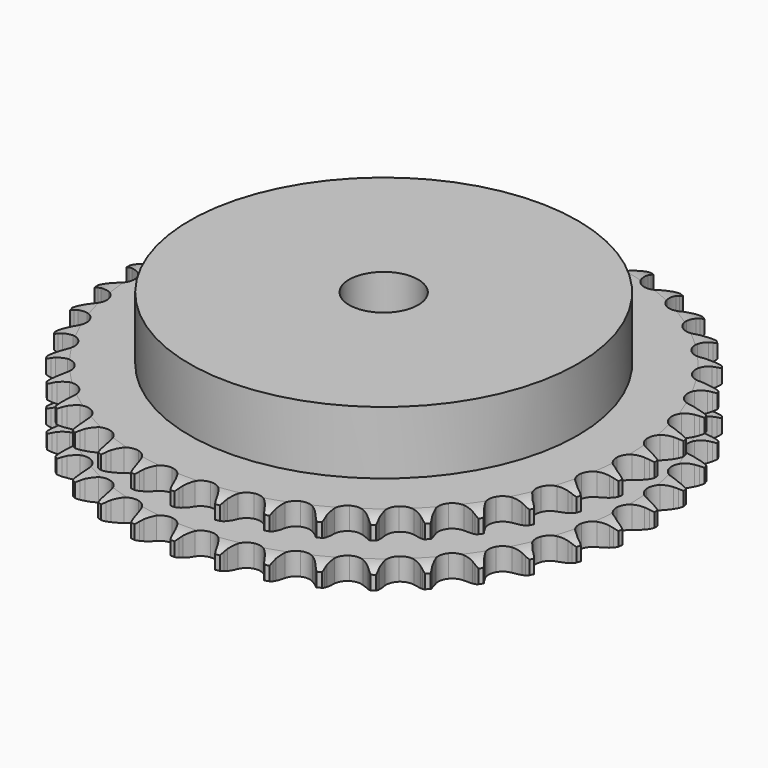
from build123d import *

# Parameters (mm, degrees)
PAD_DEPTH         = 15.4
SKETCH001_R       = 45
PAD001_DEPTH      = 30
SKETCH002_R       = 8
POCKET_DEPTH      = 0.001
POCKET_DEPTH_BACK = 30.001


with BuildPart() as part:
    # Sprocket → Pad (new body)
    with BuildSketch(Plane.XY):
        with BuildLine():
            ThreePointArc((-4.992558, 61.843928), (-4.440066, 61.078118), (-4.037219, 60.224054))
            Line((-4.037219, 60.224054), (-3.72759, 59.372168))
            ThreePointArc((-3.72759, 59.372168), (-3.237296, 58.276891), (-2.594344, 57.263661))
            ThreePointArc((-2.594344, 57.263661), (-1.452389, 56.302176), (0, 55.957095))
            ThreePointArc((0, 55.957095), (1.452389, 56.302176), (2.594344, 57.263661))
            ThreePointArc((2.594344, 57.263661), (3.237296, 58.276891), (3.72759, 59.372168))
            Line((3.72759, 59.372168), (4.037219, 60.224054))
            ThreePointArc((4.037219, 60.224054), (4.440066, 61.078118), (4.992558, 61.843928))
            ThreePointArc((4.992558, 61.843928), (5.415051, 60.99941), (5.675679, 60.091783))
            Line((5.675679, 60.091783), (5.844647, 59.201262))
            ThreePointArc((5.844647, 59.201262), (6.152897, 58.041519), (6.624989, 56.938273))
            ThreePointArc((6.624989, 56.938273), (7.597923, 55.806057), (8.976149, 55.232466))
            ThreePointArc((8.976149, 55.232466), (10.465085, 55.340098), (11.746485, 56.105949))
            Line((11.746485, 56.105949), (13.203284, 58.005367))
            ThreePointArc((13.203284, 58.005367), (13.413623, 58.406995), (13.645556, 58.796552))
            ThreePointArc((13.645556, 58.796552), (14.180188, 59.574936), (14.848369, 60.242203))
            ThreePointArc((14.848369, 60.242203), (15.129921, 59.340848), (15.241581, 58.403168))
            Line((15.241581, 58.403168), (15.265511, 57.497074))
            ThreePointArc((15.265511, 57.497074), (15.383733, 56.302902), (15.672739, 55.138214))
            ThreePointArc((15.672739, 55.138214), (16.451453, 53.864591), (17.719821, 53.077344))
            ThreePointArc((17.719821, 53.077344), (19.206741, 52.944741), (20.594398, 53.495123))
            Line((20.594398, 53.495123), (22.33702, 55.136257))
            ThreePointArc((22.33702, 55.136257), (22.609061, 55.498943), (22.90048, 55.846251))
            ThreePointArc((22.90048, 55.846251), (23.55305, 56.528794), (24.319616, 57.080236))
            ThreePointArc((24.319616, 57.080236), (24.452934, 56.14539), (24.412733, 55.20194))
            Line((24.412733, 55.20194), (24.291005, 54.303742))
            ThreePointArc((24.291005, 54.303742), (24.216139, 53.10607), (24.314573, 51.910105))
            ThreePointArc((24.314573, 51.910105), (24.878899, 50.52806), (26.004559, 49.547547))
            ThreePointArc((26.004559, 49.547547), (27.450952, 49.178142), (28.908927, 49.498802))
            Line((28.908927, 49.498802), (30.892239, 50.839147))
            ThreePointArc((30.892239, 50.839147), (31.218937, 51.153498), (31.562293, 51.449562))
            ThreePointArc((31.562293, 51.449562), (32.3159, 52.018586), (33.160997, 52.439922))
            ThreePointArc((33.160997, 52.439922), (33.142628, 51.495795), (32.951609, 50.571012))
            Line((32.951609, 50.571012), (32.687376, 49.703971))
            ThreePointArc((32.687376, 49.703971), (32.421359, 48.533819), (32.326672, 47.337551))
            ThreePointArc((32.326672, 47.337551), (32.661995, 45.882879), (33.615792, 44.734495))
            ThreePointArc((33.615792, 44.734495), (34.984198, 44.137856), (36.47473, 44.220487))
            Line((36.47473, 44.220487), (38.647366, 45.225329))
            ThreePointArc((38.647366, 45.225329), (39.020258, 45.483204), (39.40666, 45.720356))
            ThreePointArc((39.40666, 45.720356), (40.241786, 46.161124), (41.143526, 46.44144))
            ThreePointArc((41.143526, 46.44144), (40.973947, 45.512487), (40.637055, 44.630321))
            Line((40.637055, 44.630321), (40.237161, 43.816894))
            ThreePointArc((40.237161, 43.816894), (39.786883, 42.704567), (39.501527, 41.538979))
            ThreePointArc((39.501527, 41.538979), (39.599162, 40.049355), (40.356394, 38.762843))
            ThreePointArc((40.356394, 38.762843), (41.611372, 37.954422), (43.095857, 37.796885))
            Line((43.095857, 37.796885), (45.401545, 38.4402))
            ThreePointArc((45.401545, 38.4402), (45.810975, 38.634919), (46.230415, 38.807016))
            ThreePointArc((46.230415, 38.807016), (47.12543, 39.108114), (48.060459, 39.24015))
            ThreePointArc((48.060459, 39.24015), (47.744061, 38.350429), (47.270023, 37.533728))
            Line((47.270023, 37.533728), (46.744824, 36.794982))
            ThreePointArc((46.744824, 36.794982), (46.121947, 35.769289), (45.653313, 34.66457))
            ThreePointArc((45.653313, 34.66457), (45.510732, 33.178574), (46.051787, 31.787253))
            ThreePointArc((46.051787, 31.787253), (47.160833, 30.787989), (48.600824, 30.394364))
            Line((48.600824, 30.394364), (50.979849, 30.659489))
            ThreePointArc((50.979849, 30.659489), (51.415211, 30.78601), (51.856826, 30.888596))
            ThreePointArc((51.856826, 30.888596), (52.788551, 31.042223), (53.732652, 31.022561))
            ThreePointArc((53.732652, 31.022561), (53.277629, 30.195115), (52.678722, 29.465031))
            Line((52.678722, 29.465031), (52.041821, 28.8201))
            ThreePointArc((52.041821, 28.8201), (51.262478, 27.907606), (50.622703, 26.892366))
            ThreePointArc((50.622703, 26.892366), (50.243597, 25.448485), (50.554462, 23.988391))
            ThreePointArc((50.554462, 23.988391), (51.488854, 22.824163), (52.847055, 22.204644))
            Line((52.847055, 22.204644), (55.237801, 22.084714))
            ThreePointArc((55.237801, 22.084714), (55.687821, 22.139759), (56.140173, 22.170176))
            ThreePointArc((56.140173, 22.170176), (57.084476, 22.172355), (58.013196, 22.001503))
            ThreePointArc((58.013196, 22.001503), (57.431335, 21.257763), (56.723069, 20.633206))
            Line((56.723069, 20.633206), (55.990962, 20.098792))
            ThreePointArc((55.990962, 20.098792), (55.075337, 19.32313), (54.280991, 18.423665))
            ThreePointArc((54.280991, 18.423665), (53.67518, 17.059294), (53.747804, 15.568241))
            ThreePointArc((53.747804, 15.568241), (54.48334, 14.269203), (55.724575, 13.439836))
            Line((55.724575, 13.439836), (58.065124, 12.937956))
            ThreePointArc((58.065124, 12.937956), (58.518146, 12.9201), (58.969519, 12.877561))
            ThreePointArc((58.969519, 12.877561), (59.901943, 12.728235), (60.79123, 12.410618))
            ThreePointArc((60.79123, 12.410618), (60.097599, 11.769847), (59.298319, 11.266991))
            Line((59.298319, 11.266991), (58.489967, 10.856936))
            ThreePointArc((58.489967, 10.856936), (57.461774, 10.238195), (56.53343, 9.4778))
            ThreePointArc((56.53343, 9.4778), (55.716604, 8.228277), (55.549105, 6.744883))
            ThreePointArc((55.549105, 6.744883), (56.066736, 5.344678), (57.158858, 4.326943))
            Line((57.158858, 4.326943), (59.38859, 3.456112))
            ThreePointArc((59.38859, 3.456112), (59.832881, 3.365818), (60.271585, 3.251424))
            ThreePointArc((60.271585, 3.251424), (61.167981, 2.954461), (61.994803, 2.498305))
            ThreePointArc((61.994803, 2.498305), (61.207367, 1.977097), (60.337774, 1.608967))
            Line((60.337774, 1.608967), (59.474112, 1.333891))
            ThreePointArc((59.474112, 1.333891), (58.359981, 0.888096), (57.321683, 0.286465))
            ThreePointArc((57.321683, 0.286465), (56.314997, -0.815849), (55.911714, -2.253165))
            ThreePointArc((55.911714, -2.253165), (56.198033, -3.718271), (57.112756, -4.898015))
            Line((57.112756, -4.898015), (59.173922, -6.115243))
            ThreePointArc((59.173922, -6.115243), (59.597976, -6.275638), (60.012649, -6.458923))
            ThreePointArc((60.012649, -6.458923), (60.849801, -6.895833), (61.592743, -7.478713))
            ThreePointArc((61.592743, -7.478713), (60.731897, -7.866858), (59.814512, -8.090728))
            Line((59.814512, -8.090728), (58.917909, -8.223701))
            ThreePointArc((58.917909, -8.223701), (57.746695, -8.485004), (56.625335, -8.91229))
            ThreePointArc((56.625335, -8.91229), (55.454861, -9.838845), (54.826239, -11.192857))
            ThreePointArc((54.826239, -11.192857), (54.873831, -12.684919), (55.587464, -13.996117))
            Line((55.587464, -13.996117), (57.426682, -15.528217))
            ThreePointArc((57.426682, -15.528217), (57.819515, -15.754557), (58.199417, -16.001988))
            ThreePointArc((58.199417, -16.001988), (58.955642, -16.567528), (59.595463, -17.262036))
            ThreePointArc((59.595463, -17.262036), (58.683502, -17.507065), (57.742086, -17.580878))
            Line((57.742086, -17.580878), (56.835763, -17.568304))
            ThreePointArc((56.835763, -17.568304), (55.6378, -17.638346), (54.46242, -17.88022))
            ThreePointArc((54.46242, -17.88022), (53.158473, -18.60702), (52.320793, -19.842659))
            ThreePointArc((52.320793, -19.842659), (52.128425, -21.323034), (52.622486, -22.731727))
            Line((52.622486, -22.731727), (54.19212, -24.539018))
            ThreePointArc((54.19212, -24.539018), (54.543558, -24.825442), (54.878851, -25.130609))
            ThreePointArc((54.878851, -25.130609), (55.534564, -25.810133), (56.054692, -26.598282))
            ThreePointArc((56.054692, -26.598282), (55.115235, -26.693849), (54.17417, -26.615692))
            Line((54.17417, -26.615692), (53.281601, -26.457897))
            ThreePointArc((53.281601, -26.457897), (52.087915, -26.334865), (50.888957, -26.385063))
            ThreePointArc((50.888957, -26.385063), (49.485309, -26.893282), (48.460266, -27.978548))
            ThreePointArc((48.460266, -27.978548), (48.03292, -29.408894), (48.294613, -30.878598))
            Line((48.294613, -30.878598), (49.554011, -32.914272))
            ThreePointArc((49.554011, -32.914272), (49.854953, -33.253362), (50.136951, -33.608361))
            ThreePointArc((50.136951, -33.608361), (50.675169, -34.384269), (51.062134, -35.245646))
            ThreePointArc((51.062134, -35.245646), (50.119513, -35.189276), (49.203171, -34.961174))
            Line((49.203171, -34.961174), (48.347473, -34.662244))
            ThreePointArc((48.347473, -34.662244), (47.188981, -34.349325), (45.997496, -34.206546))
            ThreePointArc((45.997496, -34.206546), (44.530501, -34.483023), (43.344644, -35.389806))
            ThreePointArc((43.344644, -35.389806), (42.693388, -36.733078), (42.715935, -38.225729))
            Line((42.715935, -38.225729), (43.632479, -40.437063))
            ThreePointArc((43.632479, -40.437063), (43.87513, -40.820036), (44.09653, -41.215674))
            ThreePointArc((44.09653, -41.215674), (44.503314, -42.067871), (44.747094, -42.980167))
            ThreePointArc((44.747094, -42.980167), (43.825721, -42.77332), (42.957836, -42.40118))
            Line((42.957836, -42.40118), (42.161171, -41.968857))
            ThreePointArc((42.161171, -41.968857), (41.067877, -41.474155), (39.914725, -41.142097))
            ThreePointArc((39.914725, -41.142097), (38.422377, -41.179672), (37.106418, -41.884487))
            ThreePointArc((37.106418, -41.884487), (36.24812, -43.105896), (36.030937, -44.582834))
            Line((36.030937, -44.582834), (36.580889, -46.912556))
            ThreePointArc((36.580889, -46.912556), (36.758964, -47.329493), (36.914033, -47.755523))
            ThreePointArc((36.914033, -47.755523), (37.178847, -48.661937), (37.273127, -49.601523))
            ThreePointArc((37.273127, -49.601523), (36.396867, -49.249557), (35.599916, -48.743017))
            Line((35.599916, -48.743017), (34.882917, -48.188499))
            ThreePointArc((34.882917, -48.188499), (33.883137, -47.524826), (32.798183, -47.01209))
            ThreePointArc((32.798183, -47.01209), (31.319134, -46.809789), (29.907155, -47.294382))
            ThreePointArc((29.907155, -47.294382), (28.864044, -48.362293), (28.412756, -49.785266))
            Line((28.412756, -49.785266), (28.581873, -52.173037))
            ThreePointArc((28.581873, -52.173037), (28.69076, -52.613141), (28.775481, -53.058529))
            ThreePointArc((28.775481, -53.058529), (28.891467, -53.995684), (28.833806, -54.938227))
            ThreePointArc((28.833806, -54.938227), (28.025353, -54.450256), (27.319977, -53.822436))
            Line((27.319977, -53.822436), (26.701214, -53.160084))
            ThreePointArc((26.701214, -53.160084), (25.820841, -52.34463), (24.832186, -51.664494))
            ThreePointArc((24.832186, -51.664494), (23.404741, -51.227557), (21.933313, -51.479377))
            ThreePointArc((21.933313, -51.479377), (20.732405, -52.366133), (20.0587, -53.698287))
            Line((20.0587, -53.698287), (19.842601, -56.082265))
            ThreePointArc((19.842601, -56.082265), (19.879481, -56.534136), (19.891659, -56.987346))
            ThreePointArc((19.891659, -56.987346), (19.855814, -57.930971), (19.647704, -58.852059))
            ThreePointArc((19.647704, -58.852059), (18.927996, -58.240722), (18.332464, -57.507882))
            Line((18.332464, -57.507882), (17.827963, -56.75485))
            ThreePointArc((17.827963, -56.75485), (17.089798, -55.808734), (16.223048, -54.978815))
            ThreePointArc((16.223048, -54.978815), (14.884178, -54.318558), (13.391409, -54.331084))
            ThreePointArc((13.391409, -54.331084), (12.063808, -55.013717), (11.185134, -56.22055))
            Line((11.185134, -56.22055), (10.589417, -58.538992))
            ThreePointArc((10.589417, -58.538992), (10.553334, -58.990927), (10.492654, -59.440222))
            ThreePointArc((10.492654, -59.440222), (10.305905, -60.365877), (9.952737, -61.241654))
            ThreePointArc((9.952737, -61.241654), (9.340415, -60.522784), (8.870151, -59.703904))
            Line((8.870151, -59.703904), (8.492977, -58.879696))
            ThreePointArc((8.492977, -58.879696), (7.916139, -57.827422), (7.193741, -56.869214))
            ThreePointArc((7.193741, -56.869214), (5.978122, -56.002737), (4.502675, -55.775644))
            ThreePointArc((4.502675, -55.775644), (3.082764, -56.236474), (2.021879, -57.28673))
            Line((2.021879, -57.28673), (1.061972, -59.479589))
            ThreePointArc((1.061972, -59.479589), (0.953861, -59.919884), (0.821895, -60.353627))
            ThreePointArc((0.821895, -60.353627), (0.489078, -61.237338), (0, -62.045122))
            ThreePointArc((0, -62.045122), (-0.489078, -61.237338), (-0.821895, -60.353627))
            Line((-0.821895, -60.353627), (-1.061972, -59.479589))
            ThreePointArc((-1.061972, -59.479589), (-1.462543, -58.348411), (-2.021879, -57.28673))
            ThreePointArc((-2.021879, -57.28673), (-3.082764, -56.236474), (-4.502675, -55.775644))
            ThreePointArc((-4.502675, -55.775644), (-5.978122, -56.002737), (-7.193741, -56.869214))
            Line((-7.193741, -56.869214), (-8.492977, -58.879696))
            ThreePointArc((-8.492977, -58.879696), (-8.670317, -59.296947), (-8.870151, -59.703904))
            ThreePointArc((-8.870151, -59.703904), (-9.340415, -60.522784), (-9.952737, -61.241654))
            ThreePointArc((-9.952737, -61.241654), (-10.305905, -60.365877), (-10.492654, -59.440222))
            Line((-10.492654, -59.440222), (-10.589417, -58.538992))
            ThreePointArc((-10.589417, -58.538992), (-10.803347, -57.358206), (-11.185134, -56.22055))
            ThreePointArc((-11.185134, -56.22055), (-12.063808, -55.013717), (-13.391409, -54.331084))
            ThreePointArc((-13.391409, -54.331084), (-14.884178, -54.318558), (-16.223048, -54.978815))
            Line((-16.223048, -54.978815), (-17.827963, -56.75485))
            ThreePointArc((-17.827963, -56.75485), (-18.069938, -57.138251), (-18.332464, -57.507882))
            ThreePointArc((-18.332464, -57.507882), (-18.927996, -58.240722), (-19.647704, -58.852059))
            ThreePointArc((-19.647704, -58.852059), (-19.855814, -57.930971), (-19.891659, -56.987346))
            Line((-19.891659, -56.987346), (-19.842601, -56.082265))
            ThreePointArc((-19.842601, -56.082265), (-19.86435, -54.882453), (-20.0587, -53.698287))
            ThreePointArc((-20.0587, -53.698287), (-20.732405, -52.366133), (-21.933313, -51.479377))
            ThreePointArc((-21.933313, -51.479377), (-23.404741, -51.227557), (-24.832186, -51.664494))
            Line((-24.832186, -51.664494), (-26.701214, -53.160084))
            ThreePointArc((-26.701214, -53.160084), (-27.001557, -53.499704), (-27.319977, -53.822436))
            ThreePointArc((-27.319977, -53.822436), (-28.025353, -54.450256), (-28.833806, -54.938227))
            ThreePointArc((-28.833806, -54.938227), (-28.891467, -53.995684), (-28.775481, -53.058529))
            Line((-28.775481, -53.058529), (-28.581873, -52.173037))
            ThreePointArc((-28.581873, -52.173037), (-28.410876, -50.985274), (-28.412756, -49.785266))
            ThreePointArc((-28.412756, -49.785266), (-28.864044, -48.362293), (-29.907155, -47.294382))
            ThreePointArc((-29.907155, -47.294382), (-31.319134, -46.809789), (-32.798183, -47.01209))
            Line((-32.798183, -47.01209), (-34.882917, -48.188499))
            ThreePointArc((-34.882917, -48.188499), (-35.23385, -48.475542), (-35.599916, -48.743017))
            ThreePointArc((-35.599916, -48.743017), (-36.396867, -49.249557), (-37.273127, -49.601523))
            ThreePointArc((-37.273127, -49.601523), (-37.178847, -48.661937), (-36.914033, -47.755523))
            Line((-36.914033, -47.755523), (-36.580889, -46.912556))
            ThreePointArc((-36.580889, -46.912556), (-36.221576, -45.767603), (-36.030937, -44.582834))
            ThreePointArc((-36.030937, -44.582834), (-36.24812, -43.105896), (-37.106418, -41.884487))
            ThreePointArc((-37.106418, -41.884487), (-38.422377, -41.179672), (-39.914725, -41.142097))
            Line((-39.914725, -41.142097), (-42.161171, -41.968857))
            ThreePointArc((-42.161171, -41.968857), (-42.553604, -42.19589), (-42.957836, -42.40118))
            ThreePointArc((-42.957836, -42.40118), (-43.825721, -42.77332), (-44.747094, -42.980167))
            ThreePointArc((-44.747094, -42.980167), (-44.503314, -42.067871), (-44.09653, -41.215674))
            Line((-44.09653, -41.215674), (-43.632479, -40.437063))
            ThreePointArc((-43.632479, -40.437063), (-43.094156, -39.364575), (-42.715935, -38.225729))
            ThreePointArc((-42.715935, -38.225729), (-42.693388, -36.733078), (-43.344644, -35.389806))
            ThreePointArc((-43.344644, -35.389806), (-44.530501, -34.483023), (-45.997496, -34.206546))
            Line((-45.997496, -34.206546), (-48.347473, -34.662244))
            ThreePointArc((-48.347473, -34.662244), (-48.771243, -34.823386), (-49.203171, -34.961174))
            ThreePointArc((-49.203171, -34.961174), (-50.119513, -35.189276), (-51.062134, -35.245646))
            ThreePointArc((-51.062134, -35.245646), (-50.675169, -34.384269), (-50.136951, -33.608361))
            Line((-50.136951, -33.608361), (-49.554011, -32.914272))
            ThreePointArc((-49.554011, -32.914272), (-48.85062, -31.942025), (-48.294613, -30.878598))
            ThreePointArc((-48.294613, -30.878598), (-48.03292, -29.408894), (-48.460266, -27.978548))
            ThreePointArc((-48.460266, -27.978548), (-49.485309, -26.893282), (-50.888957, -26.385063))
            Line((-50.888957, -26.385063), (-53.281601, -26.457897))
            ThreePointArc((-53.281601, -26.457897), (-53.725732, -26.548975), (-54.17417, -26.615692))
            ThreePointArc((-54.17417, -26.615692), (-55.115235, -26.693849), (-56.054692, -26.598282))
            ThreePointArc((-56.054692, -26.598282), (-55.534564, -25.810133), (-54.878851, -25.130609))
            Line((-54.878851, -25.130609), (-54.19212, -24.539018))
            ThreePointArc((-54.19212, -24.539018), (-53.341878, -23.692194), (-52.622486, -22.731727))
            ThreePointArc((-52.622486, -22.731727), (-52.128425, -21.323034), (-52.320793, -19.842659))
            ThreePointArc((-52.320793, -19.842659), (-53.158473, -18.60702), (-54.46242, -17.88022))
            Line((-54.46242, -17.88022), (-56.835763, -17.568304))
            ThreePointArc((-56.835763, -17.568304), (-57.288753, -17.586959), (-57.742086, -17.580878))
            ThreePointArc((-57.742086, -17.580878), (-58.683502, -17.507065), (-59.595463, -17.262036))
            ThreePointArc((-59.595463, -17.262036), (-58.955642, -16.567528), (-58.199417, -16.001988))
            Line((-58.199417, -16.001988), (-57.426682, -15.528217))
            ThreePointArc((-57.426682, -15.528217), (-56.45161, -14.828747), (-55.587464, -13.996117))
            ThreePointArc((-55.587464, -13.996117), (-54.873831, -12.684919), (-54.826239, -11.192857))
            ThreePointArc((-54.826239, -11.192857), (-55.454861, -9.838845), (-56.625335, -8.91229))
            Line((-56.625335, -8.91229), (-58.917909, -8.223701))
            ThreePointArc((-58.917909, -8.223701), (-59.368025, -8.16945), (-59.814512, -8.090728))
            ThreePointArc((-59.814512, -8.090728), (-60.731897, -7.866858), (-61.592743, -7.478713))
            ThreePointArc((-61.592743, -7.478713), (-60.849801, -6.895833), (-60.012649, -6.458923))
            Line((-60.012649, -6.458923), (-59.173922, -6.115243))
            ThreePointArc((-59.173922, -6.115243), (-58.099275, -5.581244), (-57.112756, -4.898015))
            ThreePointArc((-57.112756, -4.898015), (-56.198033, -3.718271), (-55.911714, -2.253165))
            ThreePointArc((-55.911714, -2.253165), (-56.314997, -0.815849), (-57.321683, 0.286465))
            Line((-57.321683, 0.286465), (-59.474112, 1.333891))
            ThreePointArc((-59.474112, 1.333891), (-59.909697, 1.459643), (-60.337774, 1.608967))
            ThreePointArc((-60.337774, 1.608967), (-61.207367, 1.977097), (-61.994803, 2.498305))
            ThreePointArc((-61.994803, 2.498305), (-61.167981, 2.954461), (-60.271585, 3.251424))
            Line((-60.271585, 3.251424), (-59.38859, 3.456112))
            ThreePointArc((-59.38859, 3.456112), (-58.242199, 3.810811), (-57.158858, 4.326943))
            ThreePointArc((-57.158858, 4.326943), (-56.066736, 5.344678), (-55.549105, 6.744883))
            ThreePointArc((-55.549105, 6.744883), (-55.716604, 8.228277), (-56.53343, 9.4778))
            Line((-56.53343, 9.4778), (-58.489967, 10.856936))
            ThreePointArc((-58.489967, 10.856936), (-58.899739, 11.050932), (-59.298319, 11.266991))
            ThreePointArc((-59.298319, 11.266991), (-60.097599, 11.769847), (-60.79123, 12.410618))
            ThreePointArc((-60.79123, 12.410618), (-59.901943, 12.728235), (-58.969519, 12.877561))
            Line((-58.969519, 12.877561), (-58.065124, 12.937956))
            ThreePointArc((-58.065124, 12.937956), (-56.876681, 13.104168), (-55.724575, 13.439836))
            ThreePointArc((-55.724575, 13.439836), (-54.48334, 14.269203), (-53.747804, 15.568241))
            ThreePointArc((-53.747804, 15.568241), (-53.67518, 17.059294), (-54.280991, 18.423665))
            Line((-54.280991, 18.423665), (-55.990962, 20.098792))
            ThreePointArc((-55.990962, 20.098792), (-56.364309, 20.356008), (-56.723069, 20.633206))
            ThreePointArc((-56.723069, 20.633206), (-57.431335, 21.257763), (-58.013196, 22.001503))
            ThreePointArc((-58.013196, 22.001503), (-57.084476, 22.172355), (-56.140173, 22.170176))
            Line((-56.140173, 22.170176), (-55.237801, 22.084714))
            ThreePointArc((-55.237801, 22.084714), (-54.038087, 22.058133), (-52.847055, 22.204644))
            ThreePointArc((-52.847055, 22.204644), (-51.488854, 22.824163), (-50.554462, 23.988391))
            ThreePointArc((-50.554462, 23.988391), (-50.243597, 25.448485), (-50.622703, 26.892366))
            Line((-50.622703, 26.892366), (-52.041821, 28.8201))
            ThreePointArc((-52.041821, 28.8201), (-52.369072, 29.133874), (-52.678722, 29.465031))
            ThreePointArc((-52.678722, 29.465031), (-53.277629, 30.195115), (-53.732652, 31.022561))
            ThreePointArc((-53.732652, 31.022561), (-52.788551, 31.042223), (-51.856826, 30.888596))
            Line((-51.856826, 30.888596), (-50.979849, 30.659489))
            ThreePointArc((-50.979849, 30.659489), (-49.799934, 30.440805), (-48.600824, 30.394364))
            ThreePointArc((-48.600824, 30.394364), (-47.160833, 30.787989), (-46.051787, 31.787253))
            ThreePointArc((-46.051787, 31.787253), (-45.510732, 33.178574), (-45.653313, 34.66457))
            Line((-45.653313, 34.66457), (-46.744824, 36.794982))
            ThreePointArc((-46.744824, 36.794982), (-47.017504, 37.157188), (-47.270023, 37.533728))
            ThreePointArc((-47.270023, 37.533728), (-47.744061, 38.350429), (-48.060459, 39.24015))
            ThreePointArc((-48.060459, 39.24015), (-47.12543, 39.108114), (-46.230415, 38.807016))
            Line((-46.230415, 38.807016), (-45.401545, 38.4402))
            ThreePointArc((-45.401545, 38.4402), (-44.27199, 38.035076), (-43.095857, 37.796885))
            ThreePointArc((-43.095857, 37.796885), (-41.611372, 37.954422), (-40.356394, 38.762843))
            ThreePointArc((-40.356394, 38.762843), (-39.599162, 40.049355), (-39.501527, 41.538979))
            Line((-39.501527, 41.538979), (-40.237161, 43.816894))
            ThreePointArc((-40.237161, 43.816894), (-40.448208, 44.21815), (-40.637055, 44.630321))
            ThreePointArc((-40.637055, 44.630321), (-40.973947, 45.512487), (-41.143526, 46.44144))
            ThreePointArc((-41.143526, 46.44144), (-40.241786, 46.161124), (-39.40666, 45.720356))
            Line((-39.40666, 45.720356), (-38.647366, 45.225329))
            ThreePointArc((-38.647366, 45.225329), (-37.597424, 44.644258), (-36.47473, 44.220487))
            ThreePointArc((-36.47473, 44.220487), (-34.984198, 44.137856), (-33.615792, 44.734495))
            ThreePointArc((-33.615792, 44.734495), (-32.661995, 45.882879), (-32.326672, 47.337551))
            Line((-32.326672, 47.337551), (-32.687376, 49.703971))
            ThreePointArc((-32.687376, 49.703971), (-32.831324, 50.133886), (-32.951609, 50.571012))
            ThreePointArc((-32.951609, 50.571012), (-33.142628, 51.495795), (-33.160997, 52.439922))
            ThreePointArc((-33.160997, 52.439922), (-32.3159, 52.018586), (-31.562293, 51.449562))
            Line((-31.562293, 51.449562), (-30.892239, 50.839147))
            ThreePointArc((-30.892239, 50.839147), (-29.949104, 50.097178), (-28.908927, 49.498802))
            ThreePointArc((-28.908927, 49.498802), (-27.450952, 49.178142), (-26.004559, 49.547547))
            ThreePointArc((-26.004559, 49.547547), (-24.878899, 50.52806), (-24.314573, 51.910105))
            Line((-24.314573, 51.910105), (-24.291005, 54.303742))
            ThreePointArc((-24.291005, 54.303742), (-24.364126, 54.75118), (-24.412733, 55.20194))
            ThreePointArc((-24.412733, 55.20194), (-24.452934, 56.14539), (-24.319616, 57.080236))
            ThreePointArc((-24.319616, 57.080236), (-23.55305, 56.528794), (-22.90048, 55.846251))
            Line((-22.90048, 55.846251), (-22.33702, 55.136257))
            ThreePointArc((-22.33702, 55.136257), (-21.525119, 54.252607), (-20.594398, 53.495123))
            ThreePointArc((-20.594398, 53.495123), (-19.206741, 52.944741), (-17.719821, 53.077344))
            ThreePointArc((-17.719821, 53.077344), (-16.451453, 53.864591), (-15.672739, 55.138214))
            Line((-15.672739, 55.138214), (-15.265511, 57.497074))
            ThreePointArc((-15.265511, 57.497074), (-15.26591, 57.950447), (-15.241581, 58.403168))
            ThreePointArc((-15.241581, 58.403168), (-15.129921, 59.340848), (-14.848369, 60.242203))
            ThreePointArc((-14.848369, 60.242203), (-14.180188, 59.574936), (-13.645556, 58.796552))
            Line((-13.645556, 58.796552), (-13.203284, 58.005367))
            ThreePointArc((-13.203284, 58.005367), (-12.543644, 57.002921), (-11.746485, 56.105949))
            ThreePointArc((-11.746485, 56.105949), (-10.465085, 55.340098), (-8.976149, 55.232466))
            ThreePointArc((-8.976149, 55.232466), (-7.597923, 55.806057), (-6.624989, 56.938273))
            Line((-6.624989, 56.938273), (-5.844647, 59.201262))
            ThreePointArc((-5.844647, 59.201262), (-5.772315, 59.648828), (-5.675679, 60.091783))
            ThreePointArc((-5.675679, 60.091783), (-5.415051, 60.99941), (-4.992558, 61.843928))
        make_face()
    extrude(amount=PAD_DEPTH)

    # Sketch → Groove (revolve, cut)
    with BuildSketch(Plane.XZ):
        with BuildLine():
            ThreePointArc((56.891101, 0), (59.127169, 0.253206), (61.25, 1))
            Line((61.25, 1), (61.25, 4.2))
            ThreePointArc((61.25, 4.2), (59.127169, 4.946794), (56.891101, 5.2))
            Line((45, 5.2), (56.891101, 5.2))
            Line((45, 10.2), (45, 5.2))
            Line((56.891101, 10.2), (45, 10.2))
            ThreePointArc((56.891101, 10.2), (59.127169, 10.453206), (61.25, 11.2))
            Line((61.25, 11.2), (61.25, 14.4))
            ThreePointArc((61.25, 14.4), (59.127169, 15.146794), (56.891101, 15.4))
            Line((56.891101, 15.4), (66.891101, 15.4))
            Line((66.891101, 15.4), (66.891101, 0))
            Line((56.891101, 0), (66.891101, 0))
        make_face()
    revolve(axis=Axis((0, 0, 0), (0, 0, 1)), mode=Mode.SUBTRACT)

    # Sketch001 → Pad001 (join)
    with BuildSketch(Plane.XY):
        Circle(SKETCH001_R)
    extrude(amount=PAD001_DEPTH)

    # Sketch002 → Pocket (cut, two sides)
    with BuildSketch(Plane.XY) as pocket_sk:
        Circle(SKETCH002_R)
    extrude(amount=-POCKET_DEPTH, mode=Mode.SUBTRACT)
    extrude(pocket_sk.sketch, amount=POCKET_DEPTH_BACK, mode=Mode.SUBTRACT)


solid = part.part
